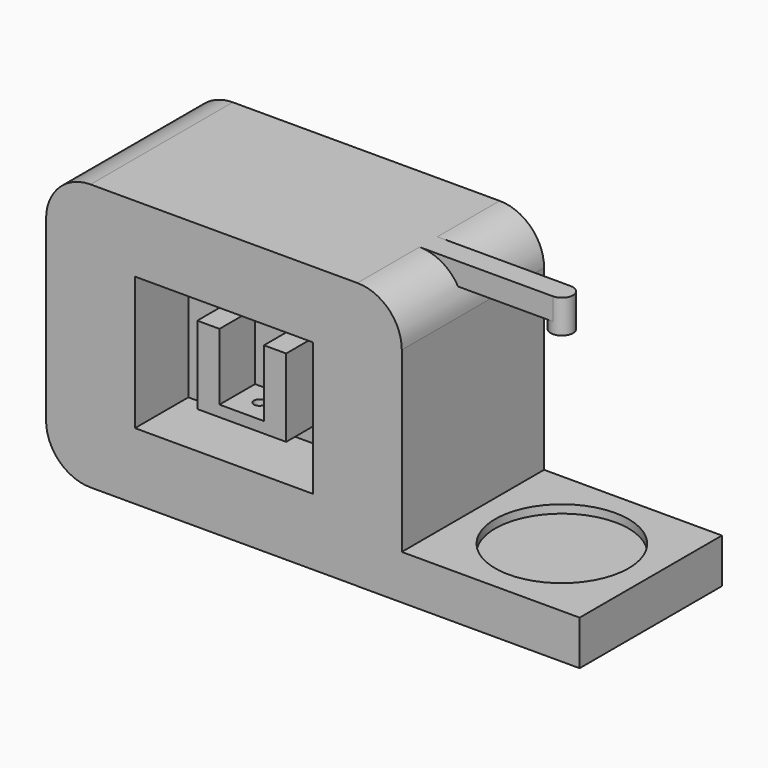
from build123d import *

# Parameters (mm, degrees)
F0_W           = 203.2
F0_H           = 152.4
F1_DEPTH       = 101.6
F2_R           = 25.4
F3_R           = 25.4
F4_W           = 101.6
F4_H           = 76.2
F5_DEPTH       = 38.1
F7_DEPTH       = 25.4
F8_R           = 3.175
F9_DEPTH       = 12.7
F10_W          = 101.6
F10_H          = 25.457462908
F11_DEPTH      = 101.6
F11_DEPTH_BACK = 25.4
F12_R          = 38.1
F13_DEPTH      = 4.699
F15_W          = 152.4
F15_H          = 12.7
F16_DEPTH      = 6.35
F16_DEPTH_BACK = 6.35
F17_R          = 6.35
F18_DEPTH      = 19.05


with BuildPart() as f1:
    # F0 (on Front) → F1 (new body)
    with BuildSketch(Plane.XZ):
        Rectangle(F0_W, F0_H)
    extrude(amount=F1_DEPTH)

    # F2
    f2_edges = [f1.edges().sort_by_distance(p)[0] for p in [
        (101.6, -50.8, 76.2),
    ]]
    fillet(f2_edges, radius=F2_R)

    # F3
    f3_edges = [f1.edges().sort_by_distance(p)[0] for p in [
        (-101.6, -50.8, 76.2),
        (101.6, -50.8, -76.2),
        (-101.6, -50.8, -76.2),
    ]]
    fillet(f3_edges, radius=F3_R)

    # F4 (on face) → F5 (cut)
    with BuildSketch(Plane.XZ.offset(101.6)):
        Rectangle(F4_W, F4_H)
    extrude(amount=-F5_DEPTH, mode=Mode.SUBTRACT)

    # F6 (on face) → F7 (join)
    with BuildSketch(Plane.XZ.offset(63.5)):
        Polygon((-12.7, 19.05), (-25.4, 19.05), (-25.4, -19.05), (-25.4, -25.4), (25.4, -25.4), (25.4, -19.05), (25.4, 19.05), (12.7, 19.05), (12.7, -19.05), (-12.7, -19.05), align=None)
    extrude(amount=F7_DEPTH)

    # F8 (on face) → F9 (cut)
    with BuildSketch(Plane.XY.offset(-19.05)):
        with Locations((0, -76.2)):
            Circle(F8_R)
    extrude(amount=-F9_DEPTH, mode=Mode.SUBTRACT)

    # F10 (on face) → F11 (join, two sides)
    with BuildSketch(Plane.YZ.offset(101.6)) as f11_sk:
        with Locations((-50.8, -63.528731454)):
            Rectangle(F10_W, F10_H)
    extrude(amount=F11_DEPTH)
    extrude(f11_sk.sketch, amount=-F11_DEPTH_BACK)

    # F12 (on face) → F13 (cut)
    with BuildSketch(Plane.XY.offset(-50.8)):
        with Locations((152.4, -50.8)):
            Circle(F12_R)
    extrude(amount=-F13_DEPTH, mode=Mode.SUBTRACT)

    # F15 (on offset) → F16 (join, two sides)
    with BuildSketch(Plane(origin=(0, -50.8, 0), x_dir=(-1, 0, 0), z_dir=(0, 1, 0))) as f16_sk:
        with Locations((-76.2, 69.85)):
            Rectangle(F15_W, F15_H)
    extrude(amount=F16_DEPTH)
    extrude(f16_sk.sketch, amount=-F16_DEPTH_BACK)

    # F17 (on face) → F18 (join)
    with BuildSketch(Plane.XY.offset(76.2)):
        with Locations((152.4, -50.8)):
            Circle(F17_R)
    extrude(amount=-F18_DEPTH)


solid = f1.part
